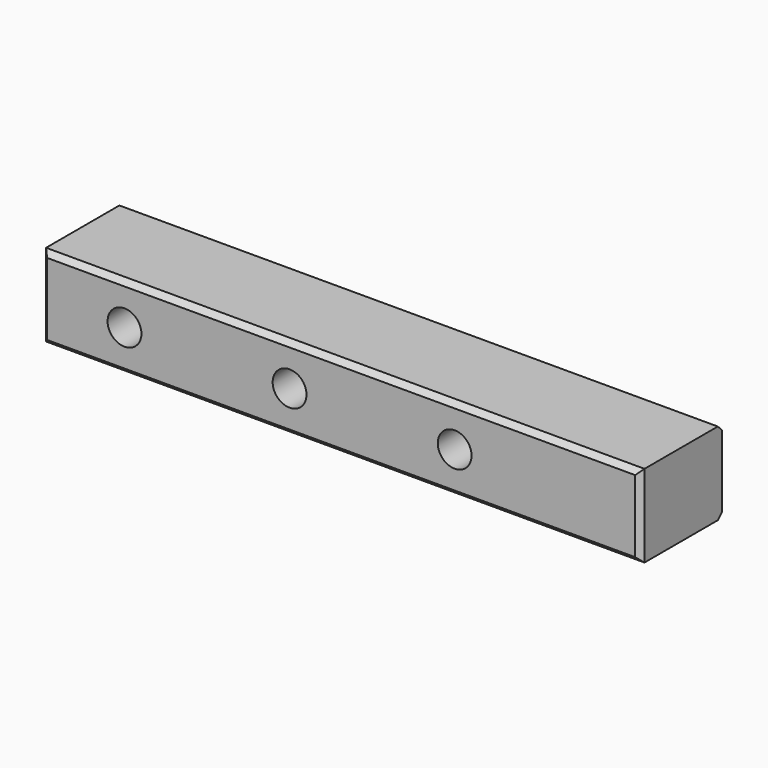
from build123d import *

# Parameters (mm, degrees)
F0_W     = 184.15
F0_H     = 25.4
F0_R     = 5.207
F1_DEPTH = 31.369
F2_SIZE  = 1.5875
F3_SIZE  = 1.5875
F4_SIZE  = 1.5875


with BuildPart() as f1:
    # F0 (on Front) → F1 (new body)
    with BuildSketch(Plane.XZ):
        Rectangle(F0_W, F0_H)
        with Locations((-66.675, 0)):
            Circle(F0_R, mode=Mode.SUBTRACT)
        with Locations((-15.875, 0)):
            Circle(F0_R, mode=Mode.SUBTRACT)
        with Locations((34.925, 0)):
            Circle(F0_R, mode=Mode.SUBTRACT)
    extrude(amount=F1_DEPTH)

    # F2
    f2_edges = [f1.edges().sort_by_distance(p)[0] for p in [
        (92.075, -31.369, 0),
    ]]
    chamfer(f2_edges, length=F2_SIZE)

    # F3
    f3_edges = [f1.edges().sort_by_distance(p)[0] for p in [
        (-92.075, -31.369, 0),
    ]]
    chamfer(f3_edges, length=F3_SIZE)

    # F4
    f4_edges = [f1.edges().sort_by_distance(p)[0] for p in [
        (0, -31.369, 12.7),
        (0, -31.369, -12.7),
        (0, 0, -12.7),
        (0, 0, 12.7),
    ]]
    chamfer(f4_edges, length=F4_SIZE)


solid = f1.part
